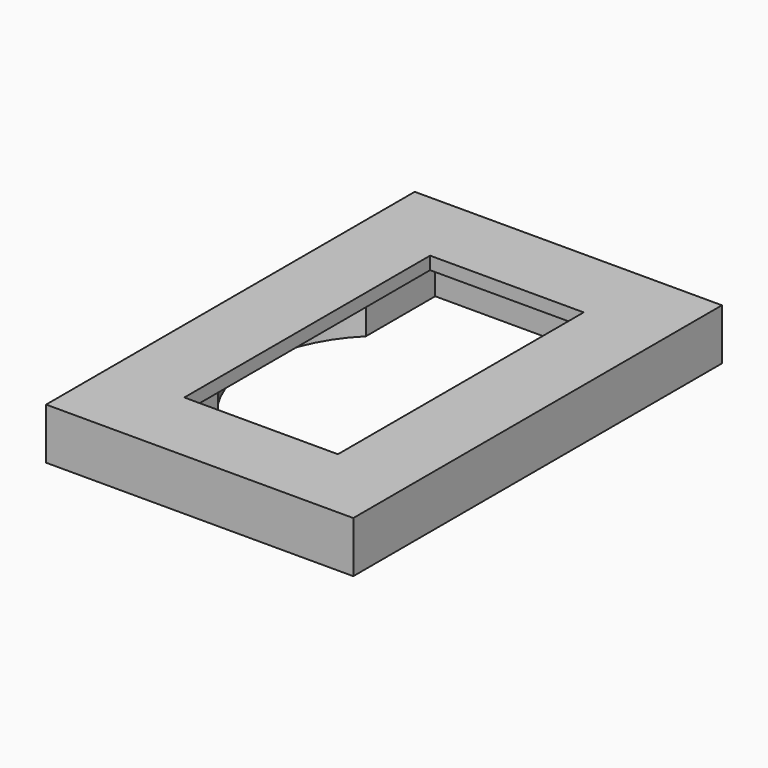
from build123d import *

# Parameters (mm, degrees)
SKETCH_W        = 60
SKETCH_H        = 90
PAD_DEPTH       = 10
SKETCH001_W     = 30
SKETCH001_H     = 60
POCKET_DEPTH    = 10.001
SKETCH002_W     = 36
SKETCH002_H     = 70
POCKET001_DEPTH = 7.5
SKETCH003_R     = 25.5
POCKET002_DEPTH = 5


with BuildPart() as part:
    # Sketch → Pad (new body)
    with BuildSketch(Plane.XY):
        with Locations((30, 45)):
            Rectangle(SKETCH_W, SKETCH_H)
    extrude(amount=PAD_DEPTH)

    # Sketch001 (on Face5 of Pad) → Pocket (cut, through all)
    with BuildSketch(Plane(origin=(0, 0, 0), x_dir=(1, 0, 0), z_dir=(0, 0, -1))):
        with Locations((30, -45)):
            Rectangle(SKETCH001_W, SKETCH001_H)
    extrude(amount=-POCKET_DEPTH, mode=Mode.SUBTRACT)

    # Sketch002 → Pocket001 (cut)
    with BuildSketch(Plane.XY):
        with Locations((30, 45)):
            Rectangle(SKETCH002_W, SKETCH002_H)
    extrude(amount=POCKET001_DEPTH, mode=Mode.SUBTRACT)

    # Sketch003 → Pocket002 (cut)
    with BuildSketch(Plane.XY):
        with Locations((30, 45)):
            Circle(SKETCH003_R)
    extrude(amount=POCKET002_DEPTH, mode=Mode.SUBTRACT)


solid = part.part
